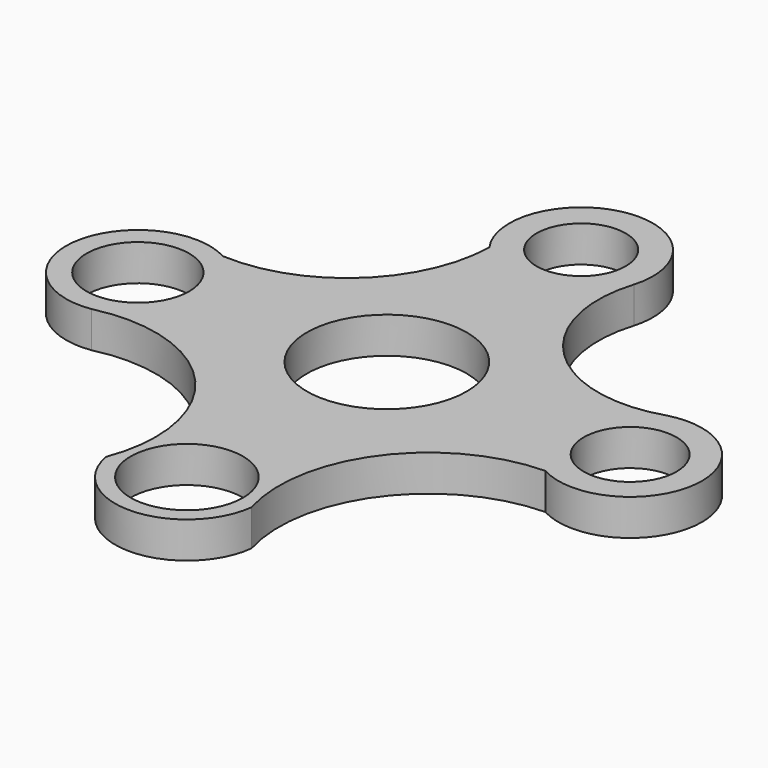
from build123d import *

# Parameters (mm, degrees)
F1_R     = 15.481592
F1_R_2   = 12.823278
F1_R_3   = 14.152033
F1_R_4   = 22.060556
F1_R_5   = 12.301546
F2_DEPTH = 10


with BuildPart() as f2:
    # F1 (on face) → F2 (new body)
    with BuildSketch(Plane.XY):
        with BuildLine():
            ThreePointArc((58.431611, -18.361469), (87.574883, -3.275312), (62.717242, 18.149442))
            ThreePointArc((62.717242, 18.149442), (27.701082, 26.490661), (19.001218, 61.419441))
            ThreePointArc((19.001218, 61.419441), (-3.272861, 86.5448), (-16.141289, 55.531547))
            ThreePointArc((-16.141289, 55.531547), (-28.98566, 27.015112), (-58.426033, 16.459102))
            ThreePointArc((-58.426033, 16.459102), (-87.471911, 2.605688), (-65.055522, -20.482959))
            ThreePointArc((-65.055522, -20.482959), (-26.677892, -32.715613), (-19.569491, -72.36345))
            ThreePointArc((-19.569491, -72.36345), (0.523456, -88.667208), (19.597751, -71.182635))
            ThreePointArc((19.597751, -71.182635), (25.95519, -35.170778), (58.431611, -18.361469))
        make_face()
        with Locations((-0.073406, -68.869513)):
            Circle(F1_R, mode=Mode.SUBTRACT)
        with Locations((67.903247, -0.966266)):
            Circle(F1_R_2, mode=Mode.SUBTRACT)
        with Locations((-67.976653, -0.892861)):
            Circle(F1_R_3, mode=Mode.SUBTRACT)
        Circle(F1_R_4, mode=Mode.SUBTRACT)
        with Locations((0, 67.010386)):
            Circle(F1_R_5, mode=Mode.SUBTRACT)
    extrude(amount=F2_DEPTH)


solid = f2.part
